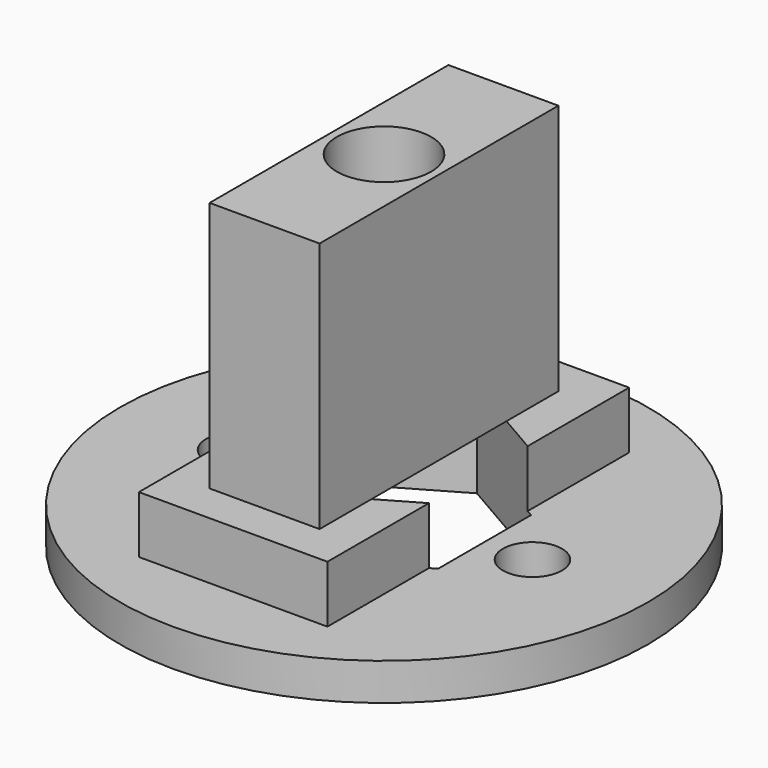
from build123d import *

# Parameters (mm, degrees)
F0_R      = 10.66798
F1_DEPTH  = 1.5
F2_W      = 7.62
F2_H      = 15.24
F3_DEPTH  = 2.31
F4_W      = 4.445
F4_H      = 12.065
F5_DEPTH  = 10.16
F6_R      = 1.905
F7_DEPTH  = 13.971
F8_R      = 1.905
F9_DEPTH  = 3.81
F10_R     = 1.19378
F11_DEPTH = 1.501


with BuildPart() as f1:
    # F0 (on Top) → F1 (new body)
    with BuildSketch(Plane.XY):
        Circle(F0_R)
    extrude(amount=F1_DEPTH)

    # F2 (on face) → F3 (join)
    with BuildSketch(Plane.XY.offset(1.5)):
        Rectangle(F2_W, F2_H)
    extrude(amount=F3_DEPTH)

    # F4 (on face) → F5 (join)
    with BuildSketch(Plane.XY.offset(3.81)):
        Rectangle(F4_W, F4_H)
    extrude(amount=F5_DEPTH)

    # F6 (on face) → F7 (cut, through all)
    with BuildSketch(Plane.XY.offset(13.97)):
        Circle(F6_R)
    extrude(amount=-F7_DEPTH, mode=Mode.SUBTRACT)

    # F8 (on face) → F9 (cut)
    with BuildSketch(Plane(origin=(0, 0, 0), x_dir=(1, 0, 0), z_dir=(0, 0, -1))):
        Polygon((4.064, 2.346351), (0, 4.692703), (-4.064, 2.346351), (-4.064, -2.346351), (0, -4.692703), (4.064, -2.346351), align=None)
        Circle(F8_R, mode=Mode.SUBTRACT)
        Polygon((4.064, 2.346351), (0, 4.692703), (-4.064, 2.346351), (-4.064, -2.346351), (0, -4.692703), (4.064, -2.346351), align=None)
        Circle(F8_R, mode=Mode.SUBTRACT)
    extrude(amount=-F9_DEPTH, mode=Mode.SUBTRACT)

    # F10 (on face) → F11 (cut, through all)
    with BuildSketch(Plane.XY.offset(1.5)):
        with Locations((-6, 0)):
            Circle(F10_R)
        with Locations((6, 0)):
            Circle(F10_R)
    extrude(amount=-F11_DEPTH, mode=Mode.SUBTRACT)


solid = f1.part
